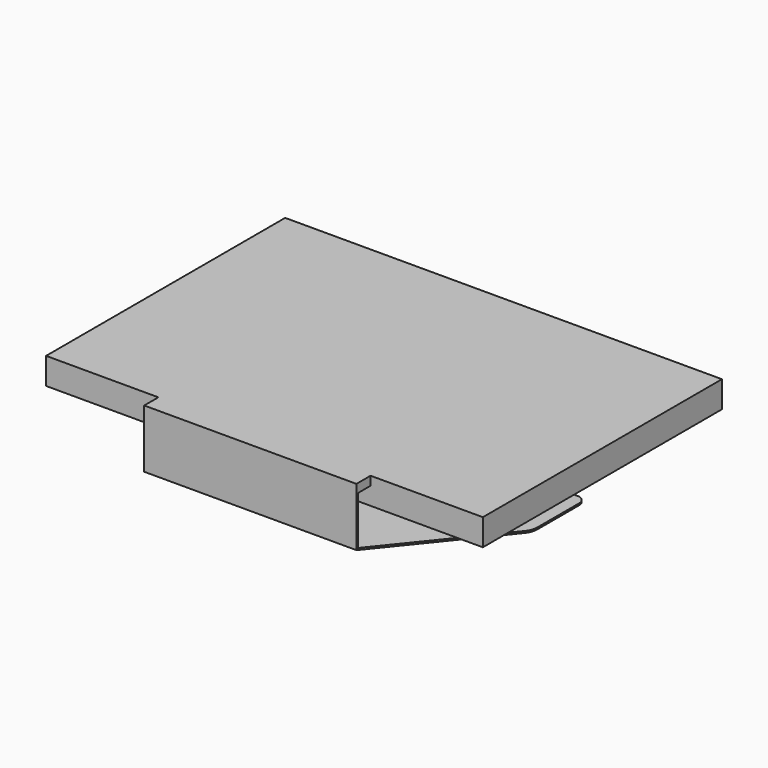
from build123d import *

# Parameters (mm, degrees)
SKETCH_W     = 24.7
SKETCH_H     = 16.9
PAD_DEPTH    = 1.5
SKETCH001_W  = 21.744
SKETCH001_H  = 10.864
PAD001_DEPTH = 1
SKETCH002_W  = 12
SKETCH002_H  = 0.5
PAD002_DEPTH = 1
SKETCH003_W  = 12
SKETCH003_H  = 0.1
PAD003_DEPTH = 2.7
PAD004_DEPTH = 0.1
FILLET_R     = 0.5
FILLET001_R  = 1
FILLET002_R  = 1


with BuildPart() as part:
    # Sketch → Pad (new body)
    with BuildSketch(Plane.XY):
        Rectangle(SKETCH_W, SKETCH_H)
    extrude(amount=PAD_DEPTH)

    # Sketch001 (on Face6 of Pad) → Pad001 (join)
    with BuildSketch(Plane.XY.offset(1.5)):
        with Locations((0, 1)):
            Rectangle(SKETCH001_W, SKETCH001_H)
        with BuildLine():
            ThreePointArc((-4.565, -6.012), (-5.065, -6.512), (-4.565, -7.012))
            Line((-4.565, -7.012), (4.565, -7.012))
            ThreePointArc((4.565, -7.012), (5.065, -6.512), (4.565, -6.012))
            Line((4.565, -6.012), (-4.565, -6.012))
        make_face()
    extrude(amount=-PAD001_DEPTH)

    # Sketch002 (on Face6 of Pad001) → Pad002 (join)
    with BuildSketch(Plane.XZ.offset(8.45)):
        with Locations((0, 1.25)):
            Rectangle(SKETCH002_W, SKETCH002_H)
    extrude(amount=PAD002_DEPTH)

    # Sketch003 (on Face11 of Pad002) → Pad003 (join)
    with BuildSketch(Plane(origin=(0, 0, 1), x_dir=(1, 0, 0), z_dir=(0, 0, -1))):
        with Locations((0, 9.4)):
            Rectangle(SKETCH003_W, SKETCH003_H)
    extrude(amount=PAD003_DEPTH)

    # Sketch004 (on Face18 of Pad003) → Pad004 (join)
    with BuildSketch(Plane(origin=(0, 0, -1.7), x_dir=(1, 0, 0), z_dir=(0, 0, -1))):
        Polygon((-6, 9.45), (-11, 3.25), (-11, -0.55), (11, -0.55), (11, 3.25), (6, 9.45), align=None)
    extrude(amount=PAD004_DEPTH)

    # Fillet
    fillet_edges = [part.edges().sort_by_distance(p)[0] for p in [
        (-11, 0.55, -1.75),
        (11, 0.55, -1.75),
    ]]
    fillet(fillet_edges, radius=FILLET_R)

    # Fillet001
    fillet001_edges = [part.edges().sort_by_distance(p)[0] for p in [
        (-11, -3.25, -1.75),
    ]]
    fillet(fillet001_edges, radius=FILLET001_R)

    # Fillet002
    fillet002_edges = [part.edges().sort_by_distance(p)[0] for p in [
        (11, -3.25, -1.75),
    ]]
    fillet(fillet002_edges, radius=FILLET002_R)


solid = part.part
